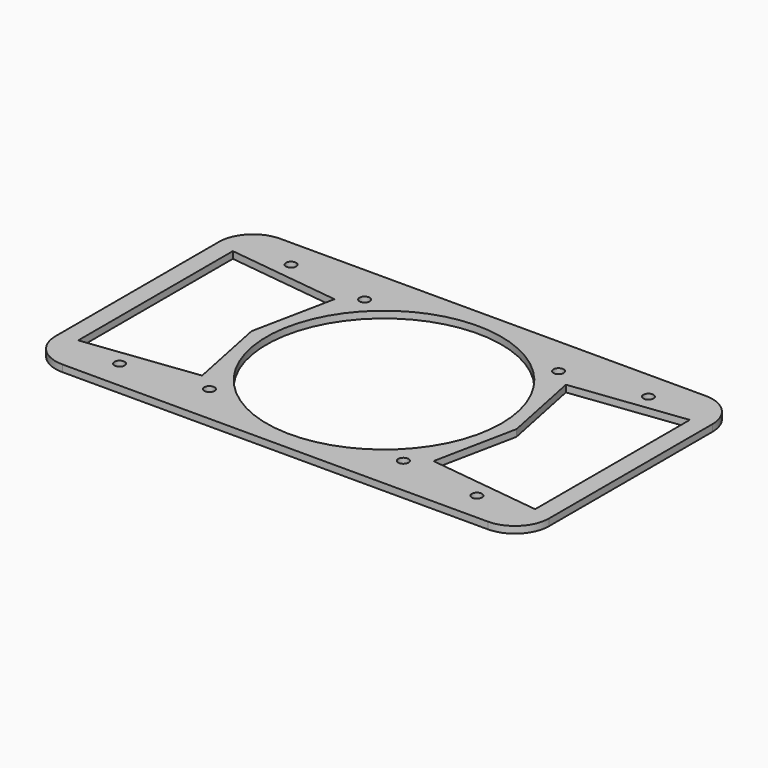
from build123d import *

# Parameters (mm, degrees)
F0_W     = 145
F0_H     = 80
F0_R     = 1.5
F0_R_2   = 34.5
F1_DEPTH = 2
F2_R     = 10


with BuildPart() as f1:
    # F0 (on Top) → F1 (new body)
    with BuildSketch(Plane.XY):
        Rectangle(F0_W, F0_H)
        with Locations((-52.5, -31.5)):
            Circle(F0_R, mode=Mode.SUBTRACT)
        with Locations((-28.5, -28.5)):
            Circle(F0_R, mode=Mode.SUBTRACT)
        with Locations((28.5, -28.5)):
            Circle(F0_R, mode=Mode.SUBTRACT)
        with Locations((52.5, -31.5)):
            Circle(F0_R, mode=Mode.SUBTRACT)
        Polygon((-67.131147, 28.401639), (-33.995904, 24.313526), (-38.944677, 0), (-33.995904, -24.313526), (-67.131147, -28.401639), (-67.131147, 0), align=None, mode=Mode.SUBTRACT)
        with Locations((-52.5, 31.5)):
            Circle(F0_R, mode=Mode.SUBTRACT)
        with Locations((-28.5, 28.5)):
            Circle(F0_R, mode=Mode.SUBTRACT)
        Circle(F0_R_2, mode=Mode.SUBTRACT)
        Polygon((33.995904, -24.313526), (38.944677, 0), (33.995904, 24.313526), (67.131147, 28.401639), (67.131147, 0), (67.131147, -28.401639), align=None, mode=Mode.SUBTRACT)
        with Locations((28.5, 28.5)):
            Circle(F0_R, mode=Mode.SUBTRACT)
        with Locations((52.5, 31.5)):
            Circle(F0_R, mode=Mode.SUBTRACT)
    extrude(amount=F1_DEPTH)

    # F2
    f2_edges = [f1.edges().sort_by_distance(p)[0] for p in [
        (-72.5, 40, 1),
        (72.5, 40, 1),
        (72.5, -40, 1),
        (-72.5, -40, 1),
    ]]
    fillet(f2_edges, radius=F2_R)


solid = f1.part
